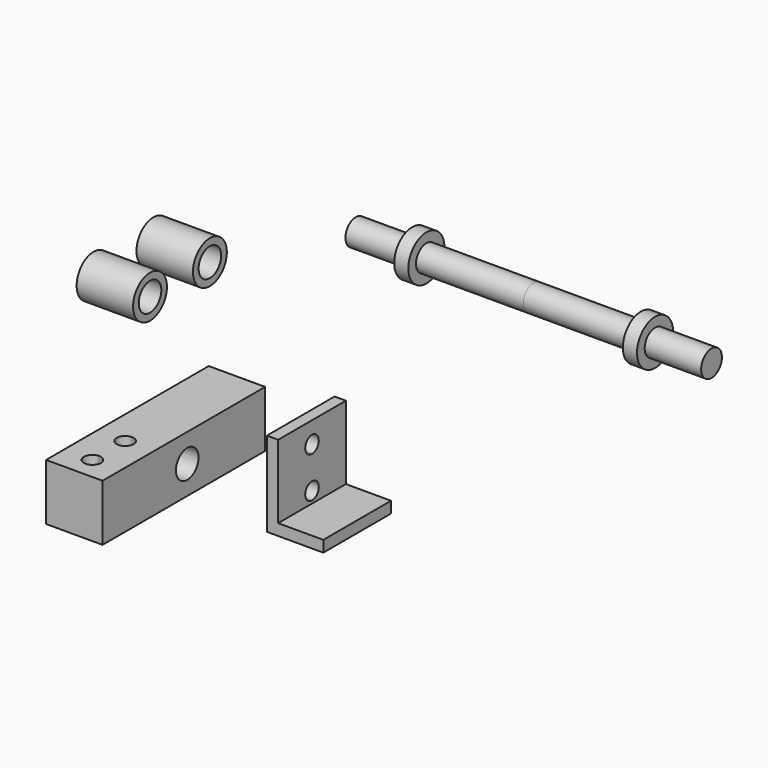
from build123d import *

# Parameters (mm, degrees)
F0_W      = 12.7
F0_H      = 12.7
F1_DEPTH  = 45.72
F2_DEPTH  = 19.05
F4_DEPTH  = 25.4
F6_DEPTH  = 25.4
F8_DEPTH  = 25.4
F9_R      = 4.7625
F9_R_2    = 3.175
F10_DEPTH = 12.7
F11_R     = 2.921
F12_DEPTH = 12.7
F13_R     = 5.08
F14_DEPTH = 3.175
F15_R     = 2.921
F16_DEPTH = 24.13


with BuildPart() as f1:
    # F0 (on Front) → F1 (new body)
    with BuildSketch(Plane.XZ):
        Rectangle(F0_W, F0_H)
    extrude(amount=F1_DEPTH)

    # F5 (on face) → F6 (cut)
    with BuildSketch(Plane.XY.offset(6.35)):
        with BuildLine():
            ThreePointArc((0, -38.735), (-1.905, -40.64), (0, -42.545))
            Line((0, -42.545), (0, -38.735))
        make_face()
        with BuildLine():
            ThreePointArc((0, -29.5275), (-1.905, -31.4325), (0, -33.3375))
            Line((0, -33.3375), (0, -29.5275))
        make_face()
        with BuildLine():
            Line((0, -29.5275), (0, -33.3375))
            ThreePointArc((0, -33.3375), (1.3470384182, -32.7795384182), (1.905, -31.4325))
            ThreePointArc((1.905, -31.4325), (1.3470384182, -30.0854615818), (0, -29.5275))
        make_face()
        with BuildLine():
            Line((0, -38.735), (0, -42.545))
            ThreePointArc((0, -42.545), (1.3470384182, -41.9870384182), (1.905, -40.64))
            ThreePointArc((1.905, -40.64), (1.3470384182, -39.2929615818), (0, -38.735))
        make_face()
    extrude(amount=-F6_DEPTH, mode=Mode.SUBTRACT)

    # F7 (on face) → F8 (cut)
    with BuildSketch(Plane(origin=(-6.35, 0, 0), x_dir=(0, -1, 0), z_dir=(-1, 0, 0))):
        with BuildLine():
            ThreePointArc((25.0825, 0), (21.9075, 3.175), (18.7325, 0))
            Line((18.7325, 0), (25.0825, 0))
        make_face()
        with BuildLine():
            Line((25.0825, 0), (18.7325, 0))
            ThreePointArc((18.7325, 0), (21.9075, -3.175), (25.0825, 0))
        make_face()
    extrude(amount=-F8_DEPTH, mode=Mode.SUBTRACT)


with BuildPart() as f2:
    # F0 (on Front) → F2 (new body)
    with BuildSketch(Plane.XZ):
        Polygon((24.5067921007, 9.525), (21.9667921007, 9.525), (21.9667921007, -9.525), (34.6667921007, -9.525), (34.6667921007, -6.985), (24.5067921007, -6.985), align=None)
    extrude(amount=F2_DEPTH)

    # F3 (on face) → F4 (cut)
    with BuildSketch(Plane(origin=(21.9667921007, 0, 0), x_dir=(0, -1, 0), z_dir=(-1, 0, 0))):
        with BuildLine():
            ThreePointArc((11.43, 4.7498), (10.8720384182, 6.0968384182), (9.525, 6.6548))
            Line((9.525, 6.6548), (9.525, 2.8448))
            ThreePointArc((9.525, 2.8448), (10.8720384182, 3.4027615818), (11.43, 4.7498))
        make_face()
        with BuildLine():
            ThreePointArc((11.43, -4.445), (10.8720384182, -3.0979615818), (9.525, -2.54))
            Line((9.525, -2.54), (9.525, -6.35))
            ThreePointArc((9.525, -6.35), (10.8720384182, -5.7920384182), (11.43, -4.445))
        make_face()
        with BuildLine():
            Line((9.525, -6.35), (9.525, -2.54))
            ThreePointArc((9.525, -2.54), (7.62, -4.445), (9.525, -6.35))
        make_face()
        with BuildLine():
            Line((9.525, 2.8448), (9.525, 6.6548))
            ThreePointArc((9.525, 6.6548), (7.62, 4.7498), (9.525, 2.8448))
        make_face()
    extrude(amount=-F4_DEPTH, mode=Mode.SUBTRACT)


with BuildPart() as f10:
    # F9 (on Right) → F10 (new body)
    with BuildSketch(Plane.YZ):
        with Locations((-40.3053197099, 42.6626764238)):
            Circle(F9_R)
        with Locations((-40.3053197099, 42.6626764238)):
            Circle(F9_R_2, mode=Mode.SUBTRACT)
    extrude(amount=F10_DEPTH)


with BuildPart() as f10b:
    # F9 (on Right) → F10, piece 2 (new body)
    with BuildSketch(Plane.YZ):
        with BuildLine():
            ThreePointArc((-18.7163754003, 42.6626764238), (-23.4788754003, 47.4251764238), (-28.2413754003, 42.6626764238))
            ThreePointArc((-28.2413754003, 42.6626764238), (-23.4788754003, 37.9001764238), (-18.7163754003, 42.6626764238))
        make_face()
        with BuildLine():
            ThreePointArc((-20.3038754003, 42.6626764238), (-23.4788754003, 39.4876764238), (-26.6538754003, 42.6626764238))
            ThreePointArc((-26.6538754003, 42.6626764238), (-23.4788754003, 45.8376764238), (-20.3038754003, 42.6626764238))
        make_face(mode=Mode.SUBTRACT)
    extrude(amount=F10_DEPTH)


with BuildPart() as f12:
    # F11 (on Right) → F12 (new body)
    with BuildSketch(Plane.YZ):
        with Locations((33.4307514131, 21.401276812)):
            Circle(F11_R)
    extrude(amount=F12_DEPTH)

    # F13 (on face) → F14 (join)
    with BuildSketch(Plane.YZ.offset(12.7)):
        with Locations((33.4307514131, 21.401276812)):
            Circle(F13_R)
    extrude(amount=F14_DEPTH)

    # F15 (on face) → F16 (join)
    with BuildSketch(Plane.YZ.offset(15.875)):
        with Locations((33.4307514131, 21.401276812)):
            Circle(F15_R)
    extrude(amount=F16_DEPTH)

    # F17: F12 across face


with BuildPart() as f12_1:
    add(f12.part)
    add(f12.part.mirror(Plane(origin=(40.005, 33.4307514131, 21.401276812), x_dir=(0, 1, 0), z_dir=(1, 0, 0))))


solid = Compound([f1.part, f2.part, f10.part, f10b.part, f12_1.part])
